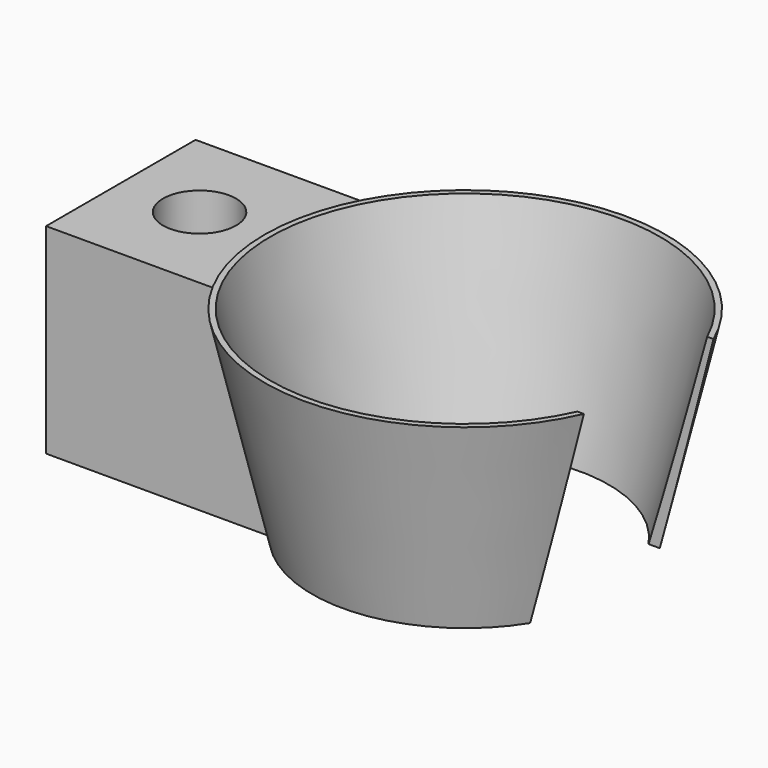
from build123d import *

# Parameters (mm, degrees)
F3_W     = 50
F3_H     = 76.046514
F4_DEPTH = 61.9
F5_R     = 11.27
F6_DEPTH = 61.8


with BuildPart() as f1:
    # F0 (on Front) → F1 (revolve)
    with BuildSketch(Plane.XZ):
        Polygon((47.209889, 0), (61.891673, 62.197552), (0, 62.49862), (0, 0), align=None)
    revolve(axis=Axis((0, 0, 31.24931), (0, 0, 1)))

    # F3 (on offset) → F4 (cut)
    with BuildSketch(Plane.YZ.offset(29)):
        with Locations((0, 28.95349)):
            Rectangle(F3_W, F3_H)
    extrude(amount=F4_DEPTH, mode=Mode.SUBTRACT)

    # F5 (on Top) → F6 (join)
    with BuildSketch(Plane.XY):
        with BuildLine():
            Line((-27.737366, 28.822735), (-106.242556, 28.822735))
            Line((-106.242556, 28.822735), (-106.242556, -28.822735))
            Line((-106.242556, -28.822735), (-28.702144, -28.822735))
            ThreePointArc((-28.702144, -28.822735), (-40.032989, 0.197711), (-27.737366, 28.822735))
        make_face()
        with Locations((-81.947307, 0)):
            Circle(F5_R, mode=Mode.SUBTRACT)
    extrude(amount=F6_DEPTH)

    # F7 (on Front) → F8 (revolve, cut)
    with BuildSketch(Plane.XZ):
        Polygon((0, 62.710572), (0, 0), (44.315554, 0), (60.244557, 62.710572), align=None)
    revolve(axis=Axis((0, 0, 31.355286), (0, 0, 1)), mode=Mode.SUBTRACT)


solid = f1.part
